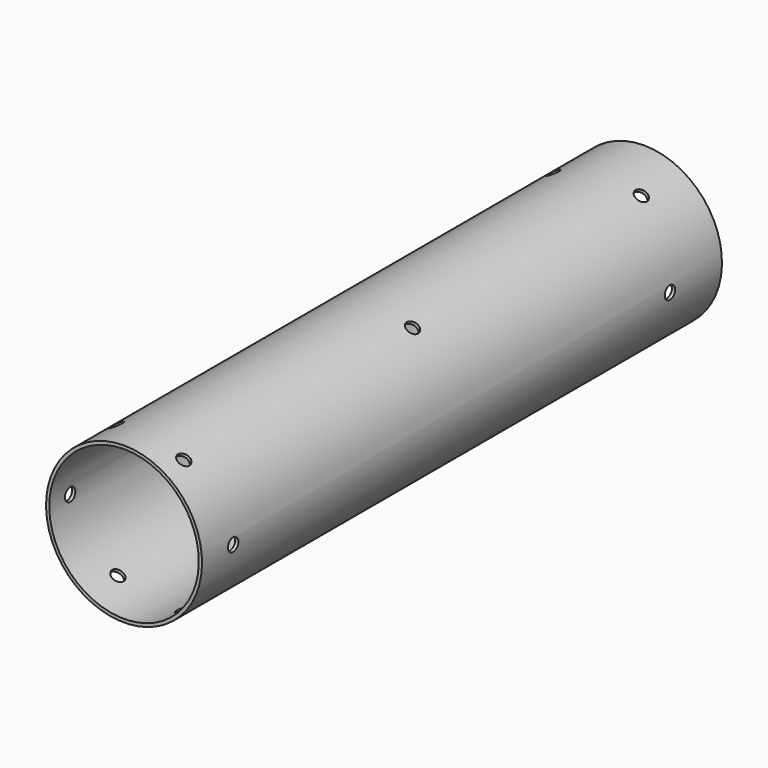
from build123d import *

# Parameters (mm, degrees)
F0_W      = 158.75
F0_H      = 0.79375
F5_R      = 1.5875
F6_DEPTH  = 20.0500001263
F7_R      = 1.5875
F8_DEPTH  = 20.0500001263
F9_R      = 1.5875
F10_DEPTH = 20.0500001263
F11_R     = 1.5875
F12_DEPTH = 20.0500001263
F13_R     = 1.5875
F14_DEPTH = 20.0500001263
F15_R     = 1.5875
F16_DEPTH = 20.0500001263


with BuildPart() as f1:
    # F0 (on Right) → F1 (revolve)
    with BuildSketch(Plane.YZ):
        with Locations((73.025, 18.653125)):
            Rectangle(F0_W, F0_H)
    revolve(axis=Axis((0, 0, 0), (0, -1, 0)))

    # F5 (on Right) → F6 (cut, up to face)
    with BuildSketch(Plane.YZ):
        with Locations((3.175, 0)):
            Circle(F5_R)
        with Locations((136.525, 0)):
            Circle(F5_R)
    extrude(amount=F6_DEPTH, mode=Mode.SUBTRACT)

    # F7 (on Right) → F8 (cut, up to face)
    with BuildSketch(Plane.YZ):
        Circle(F7_R)
        with Locations((69.85, 0)):
            Circle(F7_R)
        with Locations((139.7, 0)):
            Circle(F7_R)
    extrude(amount=-F8_DEPTH, mode=Mode.SUBTRACT)

    # F9 (on 3pt) → F10 (cut, up to face)
    with BuildSketch(Plane(origin=(0, 0, 0), x_dir=(0.8660254038, 0, 0.5), z_dir=(-0.5, 0, 0.8660254038))):
        with Locations((0, 3.175)):
            Circle(F9_R)
        with Locations((0, 136.525)):
            Circle(F9_R)
    extrude(amount=F10_DEPTH, mode=Mode.SUBTRACT)

    # F11 (on 3pt) → F12 (cut, up to face)
    with BuildSketch(Plane(origin=(0, 0, 0), x_dir=(0.8660254038, 0, 0.5), z_dir=(-0.5, 0, 0.8660254038))):
        Circle(F11_R)
        with Locations((0, 69.85)):
            Circle(F11_R)
        with Locations((0, 139.7)):
            Circle(F11_R)
    extrude(amount=-F12_DEPTH, mode=Mode.SUBTRACT)

    # F13 (on 3pt) → F14 (cut, up to face)
    with BuildSketch(Plane(origin=(0, 0, 0), x_dir=(0.8660254038, 0, -0.5), z_dir=(-0.5, 0, -0.8660254038))):
        with Locations((0, -3.175)):
            Circle(F13_R)
        with Locations((0, -136.525)):
            Circle(F13_R)
    extrude(amount=F14_DEPTH, mode=Mode.SUBTRACT)

    # F15 (on 3pt) → F16 (cut, up to face)
    with BuildSketch(Plane(origin=(0, 0, 0), x_dir=(0.8660254038, 0, -0.5), z_dir=(-0.5, 0, -0.8660254038))):
        Circle(F15_R)
        with Locations((0, -69.85)):
            Circle(F15_R)
        with Locations((0, -139.7)):
            Circle(F15_R)
    extrude(amount=-F16_DEPTH, mode=Mode.SUBTRACT)


solid = f1.part
